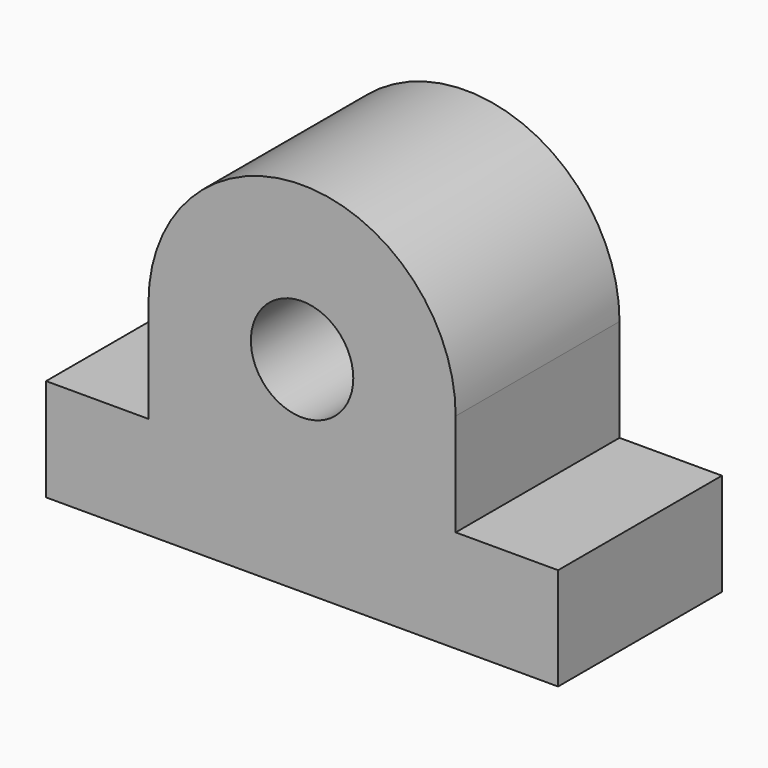
from build123d import *

# Parameters (mm, degrees)
F1_DEPTH = 50.8
F2_R     = 12.7
F3_DEPTH = 50.801


with BuildPart() as f1:
    # F0 (on Front) → F1 (new body)
    with BuildSketch(Plane.XZ):
        with BuildLine():
            Line((0, -25.4), (0, 0))
            Line((0, 0), (-25.4, 0))
            Line((-25.4, 0), (-25.4, 25.4))
            ThreePointArc((-25.4, 25.4), (-63.5, 63.5), (-101.6, 25.4))
            Line((-101.6, 25.4), (-101.6, 0))
            Line((-101.6, 0), (-127, 0))
            Line((-127, 0), (-127, -25.4))
            Line((-127, -25.4), (0, -25.4))
        make_face()
    extrude(amount=F1_DEPTH)

    # F2 (on face) → F3 (cut, through all)
    with BuildSketch(Plane.XZ.offset(50.8)):
        with Locations((-63.5, 25.4)):
            Circle(F2_R)
    extrude(amount=-F3_DEPTH, mode=Mode.SUBTRACT)


solid = f1.part
